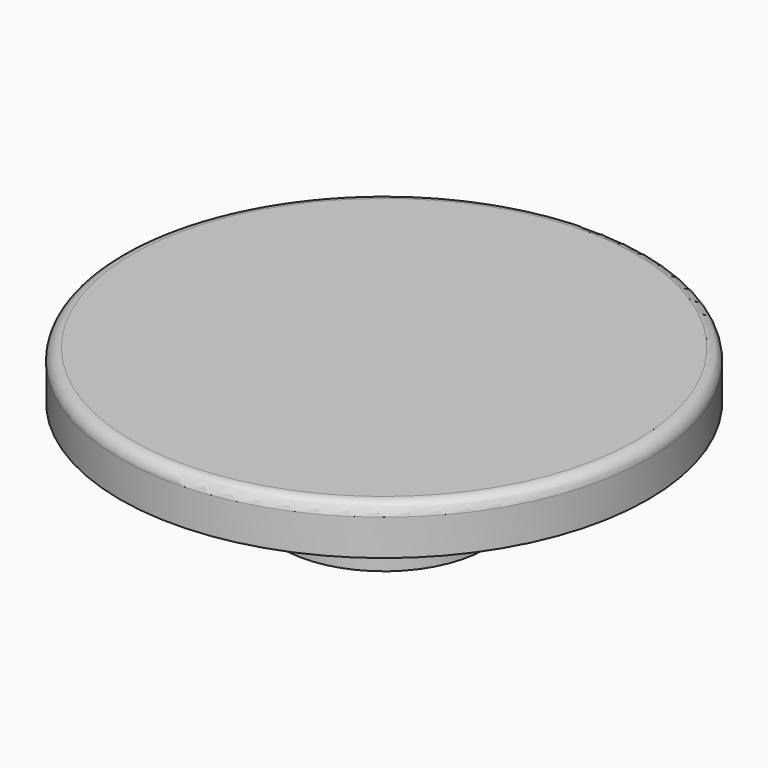
from build123d import *

# Parameters (mm, degrees)
F0_R     = 4.25
F1_DEPTH = 3
F2_R     = 5.75
F3_DEPTH = 1
F4_R     = 11
F5_DEPTH = 2
F6_R     = 0.5


with BuildPart() as f1:
    # F0 (on Top) → F1 (new body)
    with BuildSketch(Plane.XY):
        Circle(F0_R)
    extrude(amount=F1_DEPTH)

    # F2 (on face) → F3 (join)
    with BuildSketch(Plane.XY.offset(3)):
        Circle(F2_R)
    extrude(amount=F3_DEPTH)

    # F4 (on face) → F5 (join)
    with BuildSketch(Plane.XY.offset(4)):
        Circle(F4_R)
    extrude(amount=F5_DEPTH)

    # F6
    f6_edges = [f1.edges().sort_by_distance(p)[0] for p in [
        (-11, 0, 6),
    ]]
    fillet(f6_edges, radius=F6_R)


solid = f1.part
